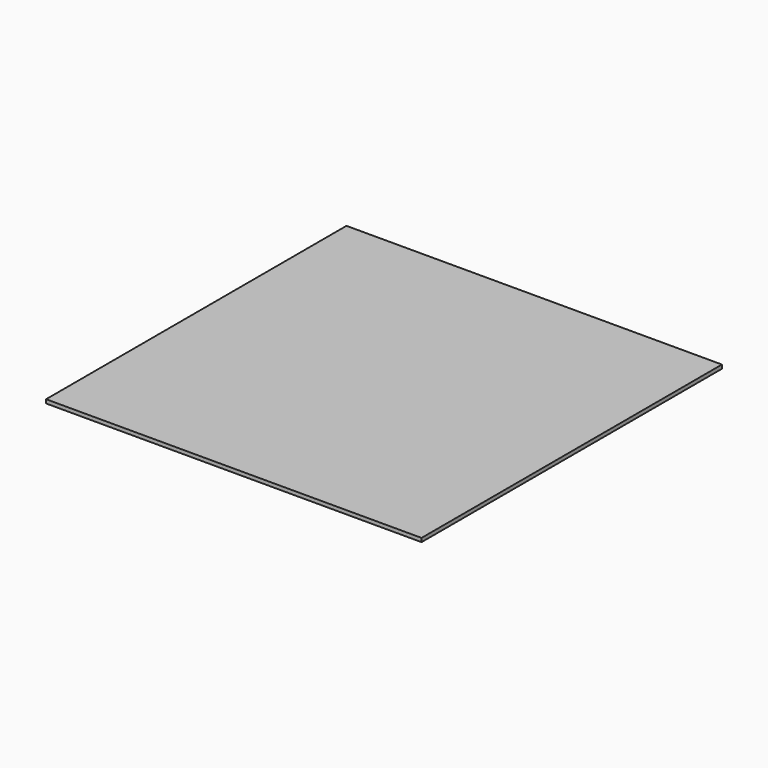
from build123d import *

# Parameters (mm, degrees)
SKETCH_W  = 100
SKETCH_H  = 100
PAD_DEPTH = 1


with BuildPart() as part:
    # Sketch → Pad (new body)
    with BuildSketch(Plane.XY):
        with Locations((19.774572, -21.721256)):
            Rectangle(SKETCH_W, SKETCH_H)
    extrude(amount=PAD_DEPTH)


solid = part.part
